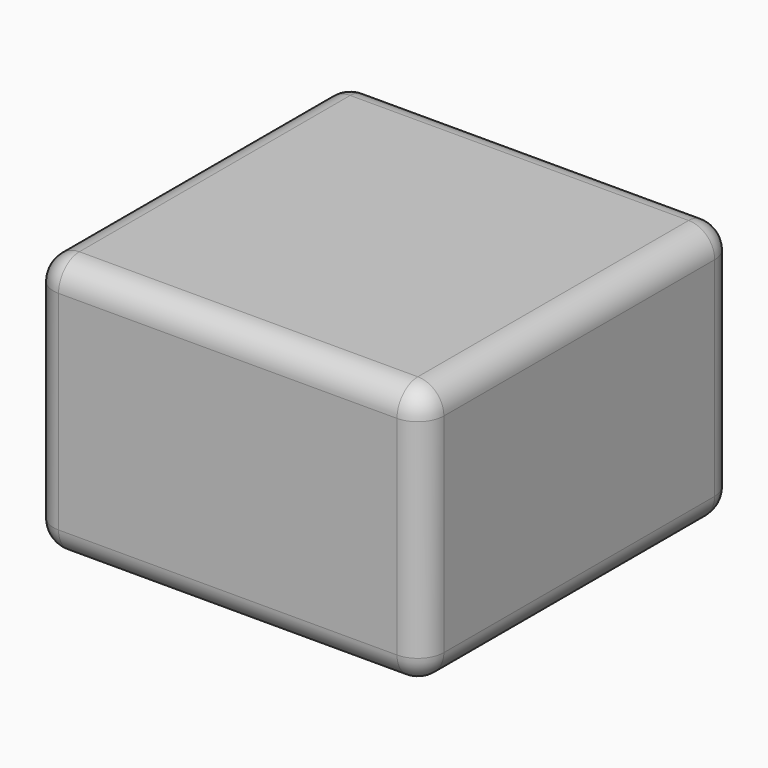
from build123d import *

# Parameters (mm, degrees)
F0_W      = 38.1
F0_H      = 38.1
F1_DEPTH  = 25.4
F2_R      = 2.54
F4_DEPTH  = 33.02
F6_DEPTH  = 6.096
F7_DEPTH  = 2.54
F8_R      = 2.54
F9_R      = 3.211175
F10_DEPTH = 5.08


with BuildPart() as f1:
    # F0 (on Top) → F1 (new body)
    with BuildSketch(Plane.XY):
        Rectangle(F0_W, F0_H)
    extrude(amount=F1_DEPTH)

    # F2
    f2_edges = [f1.edges().sort_by_distance(p)[0] for p in [
        (-19.05, -19.05, 12.7),
        (-19.05, 0, 0),
        (19.05, -19.05, 12.7),
        (0, -19.05, 0),
        (0, -19.05, 25.4),
        (19.05, 0, 0),
        (0, 19.05, 0),
        (-19.05, 19.05, 12.7),
        (-19.05, 0, 25.4),
        (19.05, 0, 25.4),
        (0, 19.05, 25.4),
        (19.05, 19.05, 12.7),
    ]]
    fillet(f2_edges, radius=F2_R)

    # F3 (on face) → F4 (cut)
    with BuildSketch(Plane(origin=(-19.05, 0, 0), x_dir=(0, -1, 0), z_dir=(-1, 0, 0))):
        Polygon((4.958837, 16.184959), (0, 16.184959), (0, 12.7), (0, 9.215041), (4.958837, 9.215041), align=None)
        Polygon((0, 16.184959), (-4.958837, 16.184959), (-4.958837, 9.215041), (0, 9.215041), (0, 12.7), align=None)
    extrude(amount=-F4_DEPTH, mode=Mode.SUBTRACT)

    # F5 (on face) → F6 (cut)
    with BuildSketch(Plane(origin=(0, 0, 0), x_dir=(1, 0, 0), z_dir=(0, 0, -1))):
        Polygon((-2.712969, -4.699), (2.712969, -4.699), (5.425938, 0), (2.712969, 4.699), (-2.712969, 4.699), (-5.425938, 0), align=None)
    extrude(amount=-F6_DEPTH, mode=Mode.SUBTRACT)

    # F5 (on face) → F7 (join)
    with BuildSketch(Plane(origin=(0, 0, 0), x_dir=(1, 0, 0), z_dir=(0, 0, -1))):
        Polygon((-2.712969, -4.699), (2.712969, -4.699), (5.425938, 0), (2.712969, 4.699), (-2.712969, 4.699), (-5.425938, 0), align=None)
    extrude(amount=-F7_DEPTH)

    # F8
    f8_edges = [f1.edges().sort_by_distance(p)[0] for p in [
        (13.97, 0, 16.184959),
        (13.97, 4.958837, 12.7),
        (13.97, 0, 9.215041),
        (13.97, -4.958837, 12.7),
        (-2.54, 4.958837, 16.184959),
        (-2.54, 4.958837, 9.215041),
        (-19.05, 4.958837, 12.7),
        (-2.54, -4.958837, 16.184959),
        (-19.05, 0, 16.184959),
        (-2.54, -4.958837, 9.215041),
        (-19.05, -4.958837, 12.7),
        (-19.05, 0, 9.215041),
    ]]
    fillet(f8_edges, radius=F8_R)

    # F9 (on face) → F10 (cut)
    with BuildSketch(Plane(origin=(0, 0, 0), x_dir=(1, 0, 0), z_dir=(0, 0, -1))):
        Circle(F9_R)
    extrude(amount=-F10_DEPTH, mode=Mode.SUBTRACT)


solid = f1.part
